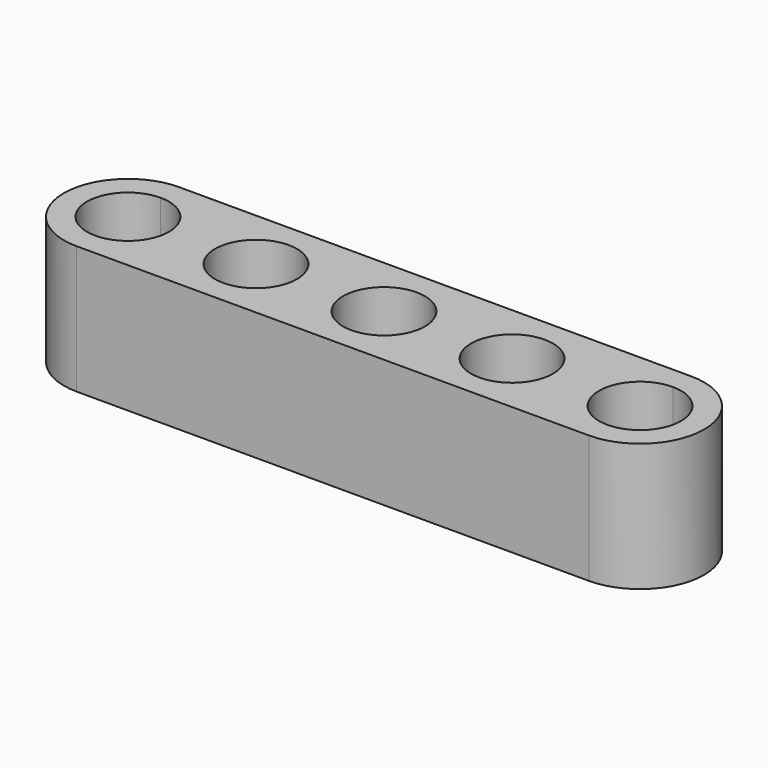
from build123d import *

# Parameters (mm, degrees)
F0_R     = 2.54
F1_DEPTH = 7.9375


with BuildPart() as f1:
    # F0 (on Top) → F1 (new body)
    with BuildSketch(Plane.XY):
        with BuildLine():
            Line((31.75, 3.96875), (0, 3.96875))
            Line((0, 3.96875), (0, 2.54))
            ThreePointArc((0, 2.54), (1.796051, 1.796051), (2.54, 0))
            ThreePointArc((2.54, 0), (1.796051, -1.796051), (0, -2.54))
            Line((0, -2.54), (0, -3.96875))
            Line((0, -3.96875), (31.75, -3.96875))
            Line((31.75, -3.96875), (31.75, -2.54))
            ThreePointArc((31.75, -2.54), (29.21, 0), (31.75, 2.54))
            Line((31.75, 2.54), (31.75, 3.96875))
        make_face()
        with Locations((7.9375, 0)):
            Circle(F0_R, mode=Mode.SUBTRACT)
        with Locations((15.875, 0)):
            Circle(F0_R, mode=Mode.SUBTRACT)
        with Locations((23.8125, 0)):
            Circle(F0_R, mode=Mode.SUBTRACT)
        with BuildLine():
            Line((0, 2.54), (0, 3.96875))
            ThreePointArc((0, 3.96875), (-3.96875, 0), (0, -3.96875))
            Line((0, -3.96875), (0, -2.54))
            ThreePointArc((0, -2.54), (-2.54, 0), (0, 2.54))
        make_face()
        with BuildLine():
            ThreePointArc((31.75, -3.96875), (35.71875, 0), (31.75, 3.96875))
            Line((31.75, 3.96875), (31.75, 2.54))
            ThreePointArc((31.75, 2.54), (33.546051, 1.796051), (34.29, 0))
            ThreePointArc((34.29, 0), (33.546051, -1.796051), (31.75, -2.54))
            Line((31.75, -2.54), (31.75, -3.96875))
        make_face()
    extrude(amount=F1_DEPTH)


solid = f1.part
